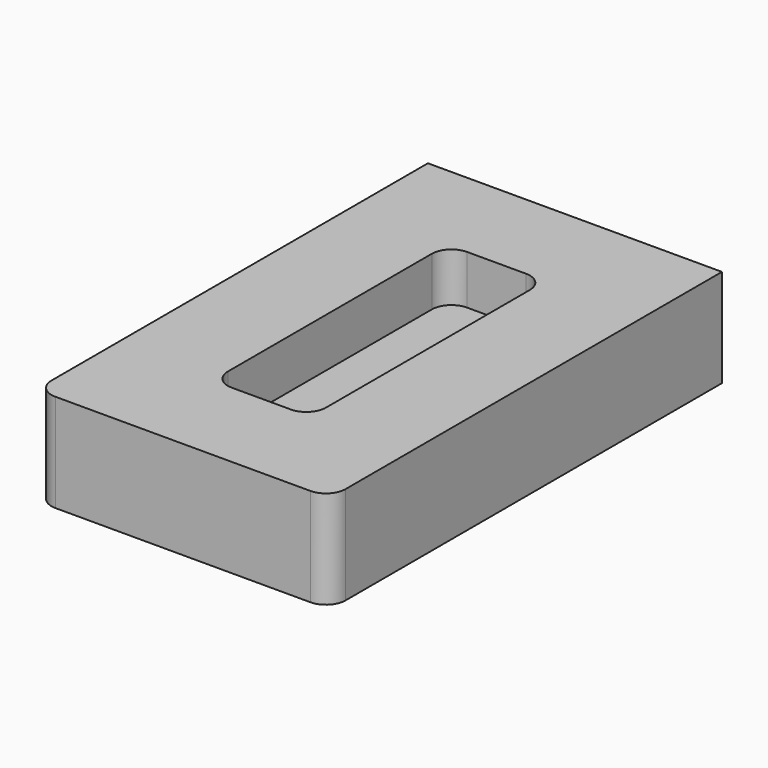
from build123d import *

# Parameters (mm, degrees)
F0_W     = 76.2
F0_H     = 127
F1_DEPTH = 25.4
F2_R     = 5.08
F3_W     = 25.4
F3_H     = 76.2
F4_DEPTH = 12.7
F5_R     = 5.08


with BuildPart() as f1:
    # F0 (on Top) → F1 (new body)
    with BuildSketch(Plane.XY):
        with Locations((38.1, -63.5)):
            Rectangle(F0_W, F0_H)
    extrude(amount=F1_DEPTH)

    # F2
    f2_edges = [f1.edges().sort_by_distance(p)[0] for p in [
        (0, -127, 12.7),
        (76.2, -127, 12.7),
    ]]
    fillet(f2_edges, radius=F2_R)

    # F3 (on face) → F4 (cut)
    with BuildSketch(Plane.XY.offset(25.4)):
        with Locations((38.1, -63.5)):
            Rectangle(F3_W, F3_H)
    extrude(amount=-F4_DEPTH, mode=Mode.SUBTRACT)

    # F5
    f5_edges = [f1.edges().sort_by_distance(p)[0] for p in [
        (50.8, -25.4, 19.05),
        (25.4, -25.4, 19.05),
        (50.8, -101.6, 19.05),
        (25.4, -101.6, 19.05),
    ]]
    fillet(f5_edges, radius=F5_R)


solid = f1.part
